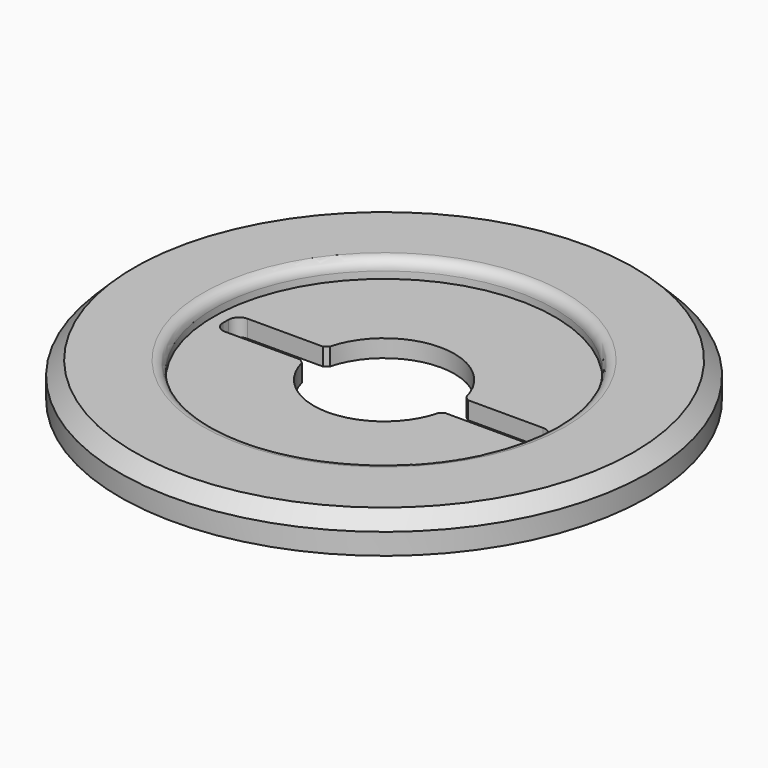
from build123d import *

# Parameters (mm, degrees)
SKETCH_R        = 75
PAD_DEPTH       = 10
SKETCH001_R     = 48.5
POCKET_DEPTH    = 5
SKETCH002_R     = 20
POCKET001_DEPTH = 5
SKETCH004_W     = 90
SKETCH004_H     = 8
POCKET002_DEPTH = 5
CHAMFER_SIZE    = 4
FILLET_R        = 3
FILLET001_R     = 3
FILLET002_R     = 3
FILLET003_R     = 3
FILLET004_R     = 3
CHAMFER001_SIZE = 1
CHAMFER002_SIZE = 1
CHAMFER003_SIZE = 1
CHAMFER004_SIZE = 1


with BuildPart() as part:
    # Sketch → Pad (new body)
    with BuildSketch(Plane.XY):
        Circle(SKETCH_R)
    extrude(amount=PAD_DEPTH)

    # Sketch001 (on Face3 of Pad) → Pocket (cut)
    with BuildSketch(Plane.XY.offset(10)):
        Circle(SKETCH001_R)
    extrude(amount=-POCKET_DEPTH, mode=Mode.SUBTRACT)

    # Sketch002 (on Face5 of Pocket) → Pocket001 (cut)
    with BuildSketch(Plane.XY.offset(5)):
        Circle(SKETCH002_R)
    extrude(amount=-POCKET001_DEPTH, mode=Mode.SUBTRACT)

    # Sketch004 (on Face6 of Pocket001) → Pocket002 (cut)
    with BuildSketch(Plane.XY.offset(5)):
        Rectangle(SKETCH004_W, SKETCH004_H)
    extrude(amount=-POCKET002_DEPTH, mode=Mode.SUBTRACT)

    # Chamfer
    chamfer_edges = [part.edges().sort_by_distance(p)[0] for p in [
        (-75, 0, 10),
    ]]
    chamfer(chamfer_edges, length=CHAMFER_SIZE)

    # Fillet
    fillet_edges = [part.edges().sort_by_distance(p)[0] for p in [
        (-48.5, 0, 10),
    ]]
    fillet(fillet_edges, radius=FILLET_R)

    # Fillet001
    fillet001_edges = [part.edges().sort_by_distance(p)[0] for p in [
        (-45, -4, 2.5),
    ]]
    fillet(fillet001_edges, radius=FILLET001_R)

    # Fillet002
    fillet002_edges = [part.edges().sort_by_distance(p)[0] for p in [
        (-45, 4, 2.5),
    ]]
    fillet(fillet002_edges, radius=FILLET002_R)

    # Fillet003
    fillet003_edges = [part.edges().sort_by_distance(p)[0] for p in [
        (45, -4, 2.5),
    ]]
    fillet(fillet003_edges, radius=FILLET003_R)

    # Fillet004
    fillet004_edges = [part.edges().sort_by_distance(p)[0] for p in [
        (45, 4, 2.5),
    ]]
    fillet(fillet004_edges, radius=FILLET004_R)

    # Chamfer001
    chamfer001_edges = [part.edges().sort_by_distance(p)[0] for p in [
        (19.595918, -4, 2.5),
    ]]
    chamfer(chamfer001_edges, length=CHAMFER001_SIZE)

    # Chamfer002
    chamfer002_edges = [part.edges().sort_by_distance(p)[0] for p in [
        (-19.595918, -4, 2.5),
    ]]
    chamfer(chamfer002_edges, length=CHAMFER002_SIZE)

    # Chamfer003
    chamfer003_edges = [part.edges().sort_by_distance(p)[0] for p in [
        (-19.595918, 4, 2.5),
    ]]
    chamfer(chamfer003_edges, length=CHAMFER003_SIZE)

    # Chamfer004
    chamfer004_edges = [part.edges().sort_by_distance(p)[0] for p in [
        (19.595918, 4, 2.5),
    ]]
    chamfer(chamfer004_edges, length=CHAMFER004_SIZE)


solid = part.part
